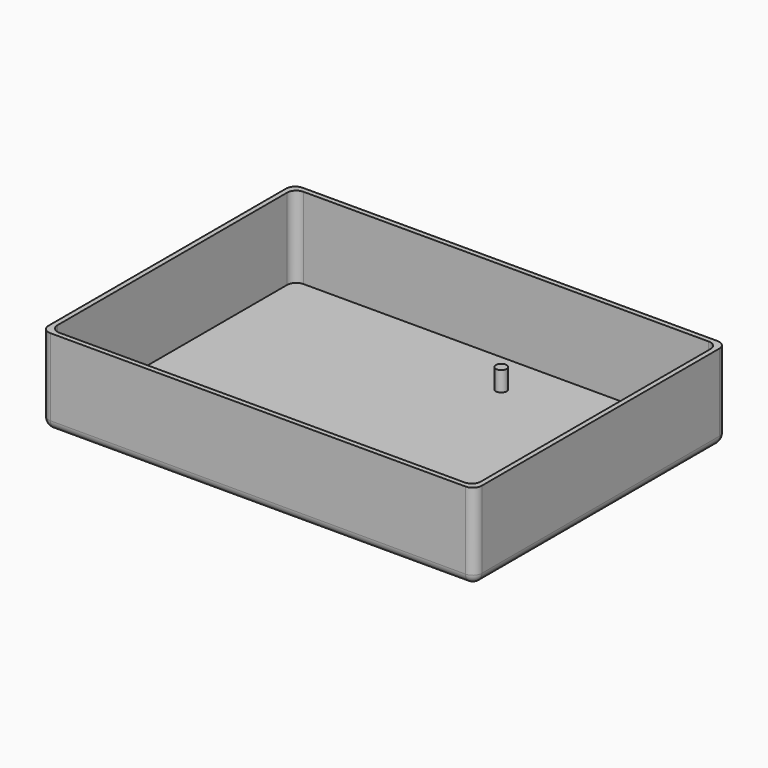
from build123d import *

# Parameters (mm, degrees)
F0_W     = 88
F0_H     = 64
F0_W_2   = 86
F0_H_2   = 62
F1_DEPTH = 17.5
F0_W_3   = 53
F0_H_3   = 57
F0_W_4   = 26
F0_H_4   = 52
F0_R     = 1.05
F0_R_2   = 2
F0_R_3   = 1.1
F2_DEPTH = 1
F3_DEPTH = 5
F4_R     = 1.8396307345


with BuildPart() as f1:
    # F0 (on Top) → F1 (new body)
    with BuildSketch(Plane.XY):
        Rectangle(F0_W, F0_H)
        Rectangle(F0_W_2, F0_H_2, mode=Mode.SUBTRACT)
    extrude(amount=F1_DEPTH)

    # F0 (on Top) → F2 (join)
    with BuildSketch(Plane.XY):
        Rectangle(F0_W_2, F0_H_2)
        with Locations((-14.4680143297, -0.051781863)):
            Rectangle(F0_W_3, F0_H_3, mode=Mode.SUBTRACT)
        with Locations((28.3339827135, -0.5997789651)):
            Rectangle(F0_W_4, F0_H_4, mode=Mode.SUBTRACT)
        with Locations((-14.4680143297, -0.051781863)):
            Rectangle(F0_W_3, F0_H_3)
        with Locations((-37.9180143297, -22.001781863)):
            Circle(F0_R, mode=Mode.SUBTRACT)
        with Locations((8.9319856703, -22.551781863)):
            Circle(F0_R_2, mode=Mode.SUBTRACT)
        with Locations((5.9319856703, 22.348218137)):
            Circle(F0_R_3, mode=Mode.SUBTRACT)
        with Locations((28.3339827135, -0.5997789651)):
            Rectangle(F0_W_4, F0_H_4)
    extrude(amount=F2_DEPTH)

    # F0 (on Top) → F3 (join)
    with BuildSketch(Plane.XY):
        with Locations((8.9319856703, -22.551781863)):
            Circle(F0_R_2)
        with Locations((-37.9180143297, -22.001781863)):
            Circle(F0_R)
        with Locations((5.9319856703, 22.348218137)):
            Circle(F0_R_3)
    extrude(amount=F3_DEPTH)

    # F4
    f4_edges = [f1.edges().sort_by_distance(p)[0] for p in [
        (-44, -32, 8.75),
        (44, -32, 8.75),
        (44, 32, 8.75),
        (-44, 32, 8.75),
        (0, -32, 0),
        (-44, 0, 0),
        (0, 32, 0),
        (44, 0, 0),
        (-43, -31, 9.25),
        (-43, 31, 9.25),
        (43, 31, 9.25),
        (43, -31, 9.25),
    ]]
    fillet(f4_edges, radius=F4_R)


solid = f1.part
